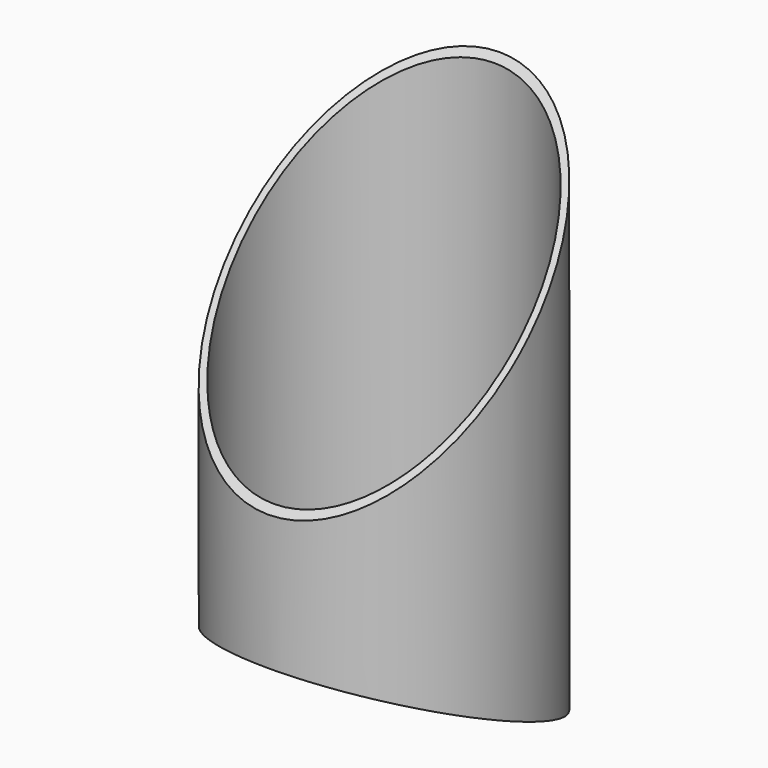
from build123d import *

# Parameters (mm, degrees)
F0_R          = 101.6
F0_R_2        = 96.8375
F1_DEPTH      = 381
F3_DEPTH      = 101.601
F3_DEPTH_BACK = 101.601


with BuildPart() as f1:
    # F0 (on Top) → F1 (new body)
    with BuildSketch(Plane.XY):
        Circle(F0_R)
        Circle(F0_R_2, mode=Mode.SUBTRACT)
    extrude(amount=F1_DEPTH)

    # F2 (on Right) → F3 (cut, two sides)
    with BuildSketch(Plane.YZ) as f3_sk:
        Polygon((-126.99617908, 152.4), (101.60382092, 381), (-126.99617908, 381), align=None)
        Polygon((101.6576290131, 0), (-126.9423709869, 93.2899319665), (-126.9423709869, 0), align=None)
    extrude(amount=-F3_DEPTH, mode=Mode.SUBTRACT)
    extrude(f3_sk.sketch, amount=F3_DEPTH_BACK, mode=Mode.SUBTRACT)


solid = f1.part
